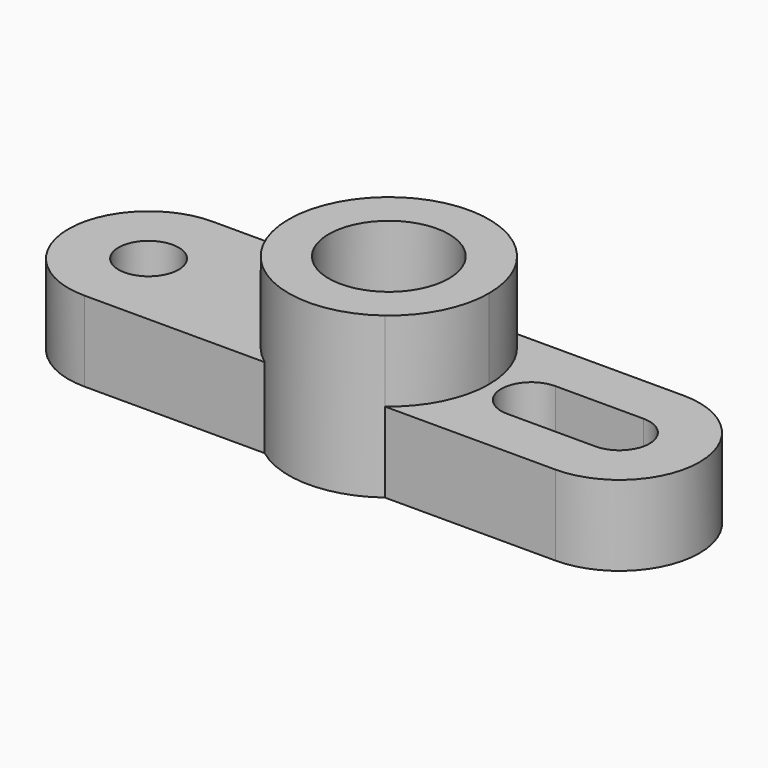
from build123d import *

# Parameters (mm, degrees)
F0_R     = 19.05
F1_DEPTH = 50.8
F0_R_2   = 9.525
F2_DEPTH = 25.4
F3_DEPTH = 25.4
F0_R_3   = 12.7
F4_DEPTH = 25.4


with BuildPart() as f1:
    # F0 (on Top) → F1 (new body)
    with BuildSketch(Plane.XY):
        with BuildLine():
            ThreePointArc((19.05, -25.4), (28.398063, -14.199032), (31.75, 0))
            ThreePointArc((31.75, 0), (28.398063, 14.199032), (19.05, 25.4))
            ThreePointArc((19.05, 25.4), (0, 31.75), (-19.05, 25.4))
            ThreePointArc((-19.05, 25.4), (-31.75, 0), (-19.05, -25.4))
            ThreePointArc((-19.05, -25.4), (0, -31.75), (19.05, -25.4))
        make_face()
        Circle(F0_R, mode=Mode.SUBTRACT)
    extrude(amount=F1_DEPTH)

    # F0 (on Top) → F2 (join)
    with BuildSketch(Plane.XY):
        with BuildLine():
            ThreePointArc((-19.05, -25.4), (-31.75, 0), (-19.05, 25.4))
            Line((-19.05, 25.4), (-76.161206, 25.4))
            ThreePointArc((-76.161206, 25.4), (-101.561206, 0), (-76.161206, -25.4))
            Line((-76.161206, -25.4), (-19.05, -25.4))
        make_face()
        with Locations((-76.161206, 0)):
            Circle(F0_R_2, mode=Mode.SUBTRACT)
    extrude(amount=F2_DEPTH)

    # F0 (on Top) → F3 (join)
    with BuildSketch(Plane.XY):
        with BuildLine():
            ThreePointArc((19.05, 25.4), (28.398063, 14.199032), (31.75, 0))
            ThreePointArc((31.75, 0), (28.398063, -14.199032), (19.05, -25.4))
            Line((19.05, -25.4), (73.097611, -25.4))
            ThreePointArc((73.097611, -25.4), (98.497611, 0), (73.097611, 25.4))
            Line((73.097611, 25.4), (19.05, 25.4))
        make_face()
        with BuildLine():
            ThreePointArc((73.097611, 9.525), (82.622611, 0), (73.097611, -9.525))
            Line((73.097611, -9.525), (45.157611, -9.525))
            ThreePointArc((45.157611, -9.525), (35.632611, 0), (45.157611, 9.525))
            Line((45.157611, 9.525), (73.097611, 9.525))
        make_face(mode=Mode.SUBTRACT)
    extrude(amount=F3_DEPTH)

    # F0 (on Top) → F4 (join)
    with BuildSketch(Plane.XY):
        Circle(F0_R)
        Circle(F0_R_3, mode=Mode.SUBTRACT)
    extrude(amount=F4_DEPTH)


solid = f1.part
